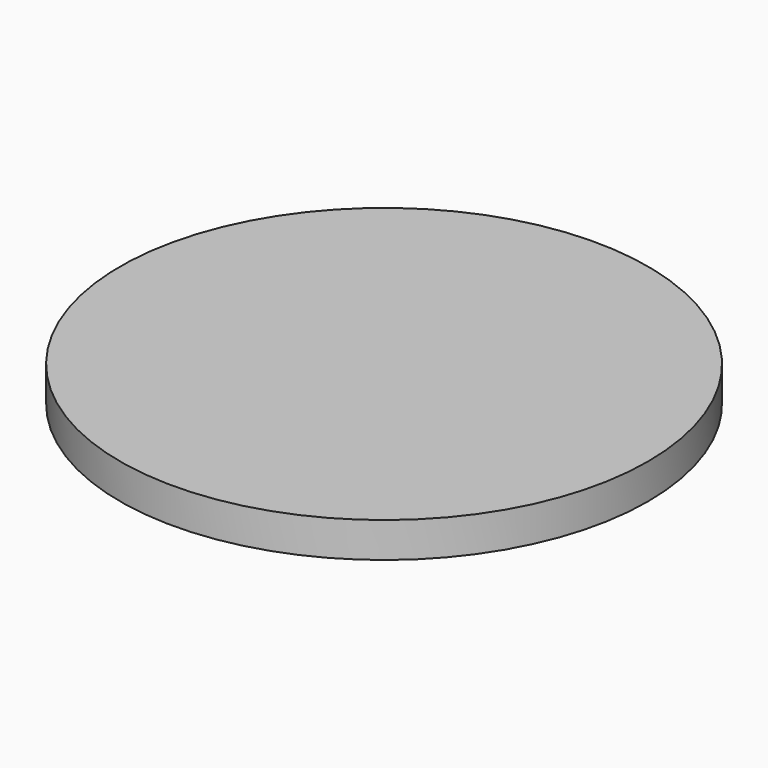
from build123d import *

# Parameters (mm, degrees)
F0_R     = 2.25
F1_DEPTH = 2.54
F0_R_2   = 19.05
F2_DEPTH = 2.54
F3_R     = 7.47
F4_DEPTH = 4.826


with BuildPart() as f1:
    # F0 (on Top) → F1 (new body)
    with BuildSketch(Plane.XY):
        Circle(F0_R)
    extrude(amount=F1_DEPTH)

    # F0 (on Top) → F2 (join)
    with BuildSketch(Plane.XY):
        Circle(F0_R_2)
        Circle(F0_R, mode=Mode.SUBTRACT)
    extrude(amount=F2_DEPTH)

    # F3 (on face) → F4 (join)
    with BuildSketch(Plane(origin=(0, 0, 0), x_dir=(1, 0, 0), z_dir=(0, 0, -1))):
        Circle(F3_R)
    extrude(amount=F4_DEPTH)


solid = f1.part
